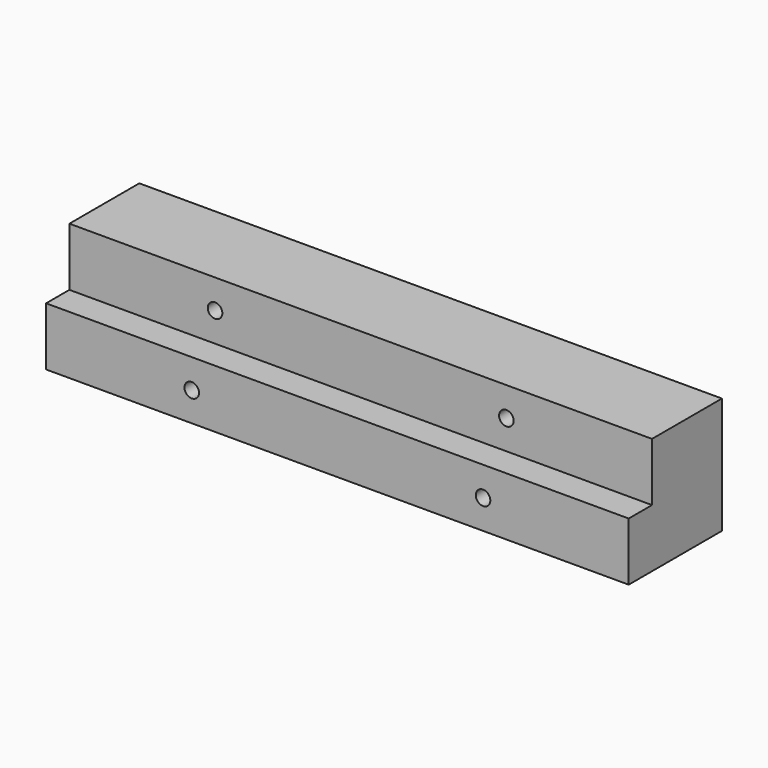
from build123d import *

# Parameters (mm, degrees)
F1_DEPTH      = 127
F1_DEPTH_BACK = 127
F4_D          = 6.35


with BuildPart() as f1:
    # F0 (on Right) → F1 (new body, two sides)
    with BuildSketch(Plane.YZ) as f1_sk:
        Polygon((0, 25.4), (0, 0), (50.8, 0), (50.8, 50.8), (12.7, 50.8), (12.7, 25.4), align=None)
    extrude(amount=F1_DEPTH)
    extrude(f1_sk.sketch, amount=-F1_DEPTH_BACK)

    # F4 (through all)
    with Locations(Plane.XZ.offset(-12.7)):
        with Locations((-63.5, 38.1), (-63.5, 12.7), (63.5, 38.1), (63.5, 12.7)):
            Hole(F4_D / 2)


solid = f1.part
